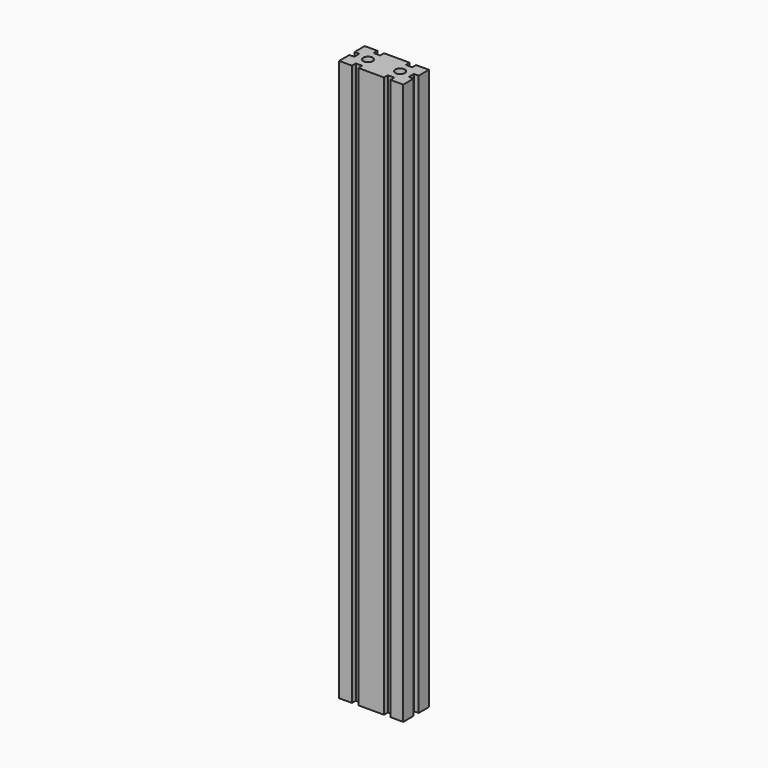
from build123d import *

# Parameters (mm, degrees)
F0_R     = 3
F1_DEPTH = 350


with BuildPart() as f1:
    # F0 (on Top) → F1 (new body)
    with BuildSketch(Plane.XY):
        Polygon((-12, 10), (-20, 10), (-20, 2), (-17, 2), (-17, -2), (-20, -2), (-20, -10), (-12, -10), (-12, -7), (-8, -7), (-8, -10), (8, -10), (8, -7), (12, -7), (12, -10), (20, -10), (20, -2), (17, -2), (17, 2), (20, 2), (20, 10), (12, 10), (12, 7), (8, 7), (8, 10), (-8, 10), (-8, 7), (-12, 7), align=None)
        with Locations((-10, 0)):
            Circle(F0_R, mode=Mode.SUBTRACT)
        with Locations((10, 0)):
            Circle(F0_R, mode=Mode.SUBTRACT)
    extrude(amount=F1_DEPTH)


solid = f1.part
